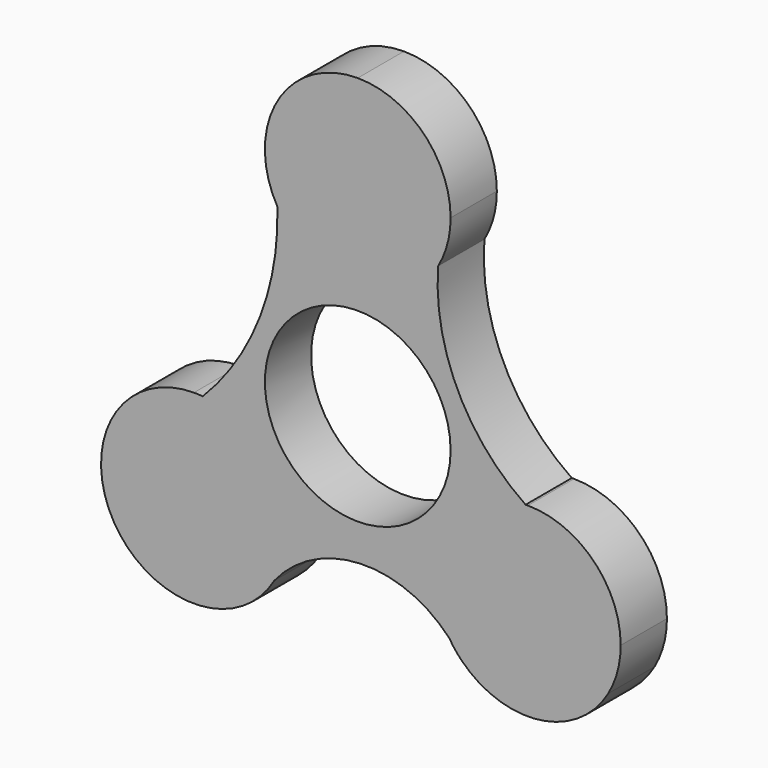
from build123d import *

# Parameters (mm, degrees)
F0_R     = 11.25
F1_DEPTH = 7


with BuildPart() as f1:
    # F0 (on Front) → F1 (new body)
    with BuildSketch(Plane.XZ):
        with BuildLine():
            Line((0, 24.8070023954), (-9.7427857926, 19.1820023954))
            ThreePointArc((-9.7427857926, 19.1820023954), (0, 13.5570023954), (9.7427857926, 19.1820023954))
            Line((9.7427857926, 19.1820023954), (0, 24.8070023954))
        make_face()
        with BuildLine():
            ThreePointArc((0, 36.0570023954), (-9.7427857926, 30.4320023954), (-9.7427857926, 19.1820023954))
            Line((-9.7427857926, 19.1820023954), (0, 24.8070023954))
            Line((0, 24.8070023954), (0, 36.0570023954))
        make_face()
        with BuildLine():
            ThreePointArc((9.7427857926, 19.1820023954), (0, 13.5570023954), (-9.7427857926, 19.1820023954))
            ThreePointArc((-9.7427857926, 19.1820023954), (-11.8794963915, 6.6600701003), (-18.785878025, -4.0013656998))
            ThreePointArc((-18.785878025, -4.0013656998), (-11.5266597843, -7.6312649105), (-8.5989967734, -15.2010209858))
            ThreePointArc((-8.5989967734, -15.2010209858), (-8.9823312276, -18.1127352432), (-10.1062109808, -20.8260209858))
            ThreePointArc((-10.1062109808, -20.8260209858), (0.3044783334, -15.6283312232), (11.0680600024, -20.0491615206))
            ThreePointArc((11.0680600024, -20.0491615206), (10.7001408508, -8.750972982), (20.3337626304, -2.8367731067))
            ThreePointArc((20.3337626304, -2.8367731067), (12.0864921747, 6.7528147477), (9.7427857926, 19.1820023954))
        make_face()
        Circle(F0_R, mode=Mode.SUBTRACT)
        with BuildLine():
            Line((0, 24.8070023954), (9.7427857926, 19.1820023954))
            ThreePointArc((9.7427857926, 19.1820023954), (10.8666655458, 21.895288138), (11.25, 24.8070023954))
            ThreePointArc((11.25, 24.8070023954), (7.9549512883, 32.7619536837), (0, 36.0570023954))
            Line((0, 36.0570023954), (0, 24.8070023954))
        make_face()
        with BuildLine():
            ThreePointArc((-19.8489967734, -5.0313835964), (-19.3113897365, -4.5226166596), (-18.785878025, -4.0013656998))
            ThreePointArc((-18.785878025, -4.0013656998), (-19.3168417059, -3.9636142127), (-19.8489967734, -3.9510209858))
            Line((-19.8489967734, -3.9510209858), (-19.8489967734, -5.0313835964))
        make_face()
        with BuildLine():
            ThreePointArc((-8.5989967734, -15.2010209858), (-11.5266597843, -7.6312649105), (-18.785878025, -4.0013656998))
            ThreePointArc((-18.785878025, -4.0013656998), (-19.3113897365, -4.5226166596), (-19.8489967734, -5.0313835964))
            Line((-19.8489967734, -5.0313835964), (-19.8489967734, -15.2010209858))
            Line((-19.8489967734, -15.2010209858), (-10.1062109808, -20.8260209858))
            ThreePointArc((-10.1062109808, -20.8260209858), (-8.9823312276, -18.1127352432), (-8.5989967734, -15.2010209858))
        make_face()
        with BuildLine():
            ThreePointArc((20.6060428172, -3.0198064633), (20.4695953446, -2.928747042), (20.3337626304, -2.8367731067))
            ThreePointArc((20.3337626304, -2.8367731067), (10.7001408508, -8.750972982), (11.0680600024, -20.0491615206))
            ThreePointArc((11.0680600024, -20.0491615206), (11.8662666045, -20.9755321249), (12.5810078032, -21.9677222755))
            Line((12.5810078032, -21.9677222755), (20.6060428172, -14.0834776685))
            Line((20.6060428172, -14.0834776685), (20.6060428172, -3.0198064633))
        make_face()
        with BuildLine():
            ThreePointArc((20.6060428172, -2.8334776685), (20.4698927529, -2.8343015582), (20.3337626304, -2.8367731067))
            ThreePointArc((20.3337626304, -2.8367731067), (20.4695953446, -2.928747042), (20.6060428172, -3.0198064633))
            Line((20.6060428172, -3.0198064633), (20.6060428172, -2.8334776685))
        make_face()
        with BuildLine():
            Line((-19.8489967734, -5.0313835964), (-19.8489967734, -3.9510209858))
            ThreePointArc((-19.8489967734, -3.9510209858), (-29.9165162791, -10.1803087852), (-28.834973309, -21.9696785855))
            Line((-28.834973309, -21.9696785855), (-19.8489967734, -15.2010209858))
            Line((-19.8489967734, -15.2010209858), (-19.8489967734, -5.0313835964))
        make_face()
        with BuildLine():
            ThreePointArc((31.8560428172, -14.0834776685), (28.5609941056, -6.1285263801), (20.6060428172, -2.8334776685))
            Line((20.6060428172, -2.8334776685), (20.6060428172, -3.0198064633))
            Line((20.6060428172, -3.0198064633), (20.6060428172, -14.0834776685))
            Line((20.6060428172, -14.0834776685), (30.3488286098, -19.7084776685))
            ThreePointArc((30.3488286098, -19.7084776685), (31.472708363, -16.9951919259), (31.8560428172, -14.0834776685))
        make_face()
        with BuildLine():
            ThreePointArc((12.5810078032, -21.9677222755), (11.8662666045, -20.9755321249), (11.0680600024, -20.0491615206))
            ThreePointArc((11.0680600024, -20.0491615206), (11.7722940288, -21.0496374673), (12.5810078032, -21.9677222755))
        make_face()
        with BuildLine():
            ThreePointArc((-28.834973309, -21.9696785855), (-19.1633013314, -26.4301047312), (-10.1062109808, -20.8260209858))
            Line((-10.1062109808, -20.8260209858), (-19.8489967734, -15.2010209858))
            Line((-19.8489967734, -15.2010209858), (-28.834973309, -21.9696785855))
        make_face()
        with BuildLine():
            Line((20.6060428172, -14.0834776685), (12.5810078032, -21.9677222755))
            ThreePointArc((12.5810078032, -21.9677222755), (22.0250965452, -25.2436204327), (30.3488286098, -19.7084776685))
            Line((30.3488286098, -19.7084776685), (20.6060428172, -14.0834776685))
        make_face()
    extrude(amount=F1_DEPTH)


solid = f1.part
